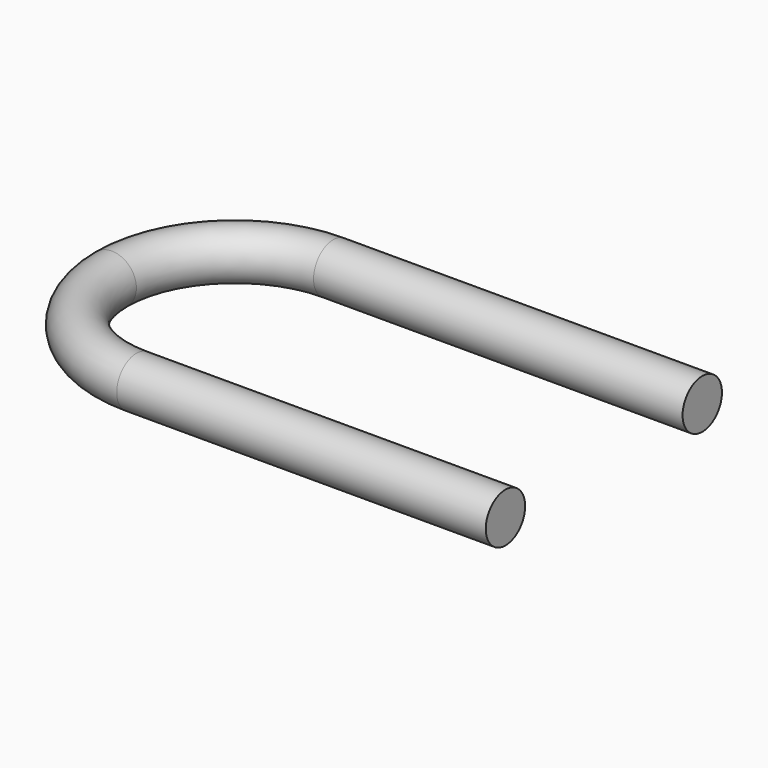
from build123d import *

# Parameters (mm, degrees)
F2_R = 2.54


with BuildPart() as f3:
    # F3: sweep along a path in F0
    with BuildLine(Plane.XY) as f3_path:
        Line((38.1, 25.4), (0, 25.4))
        ThreePointArc((0, 25.4), (-8.980256, 21.680256), (-12.7, 12.7))
        ThreePointArc((-12.7, 12.7), (-8.980256, 3.719744), (0, 0))
        Line((0, 0), (38.1, 0))
    # F2 (on offset) → F3 (sweep)
    with BuildSketch(Plane.YZ.offset(38.1)):
        Circle(F2_R)
    sweep(path=f3_path.line)


solid = f3.part
